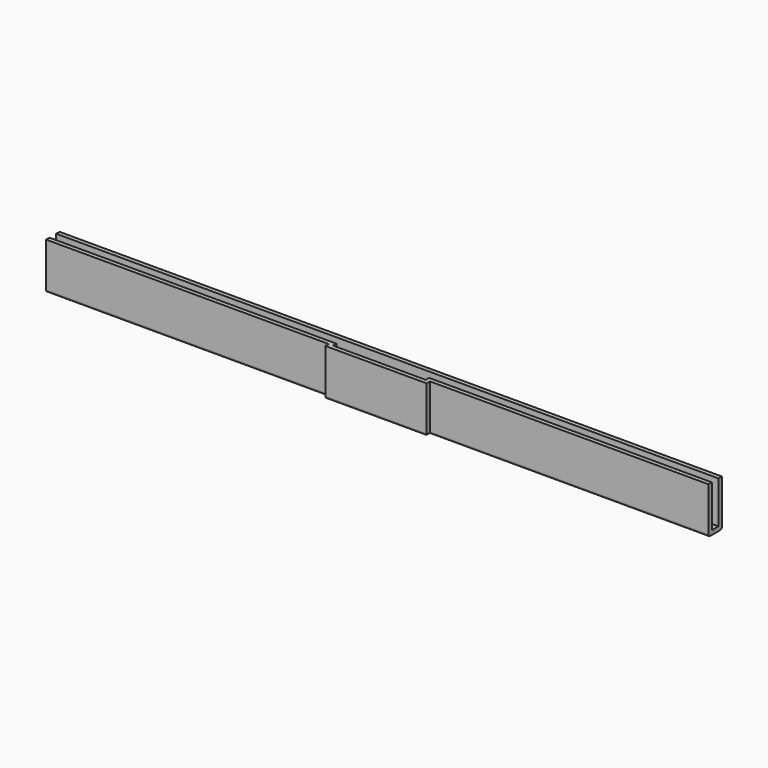
from build123d import *

# Parameters (mm, degrees)
F0_W     = 22
F0_H     = 1
F1_DEPTH = 1
F0_W_2   = 157
F2_DEPTH = 11
F3_R     = 0.5


with BuildPart() as f1:
    # F0 (on Top) → F1 (new body)
    with BuildSketch(Plane.XY):
        Polygon((95, -1), (-62, -1), (-62, -3), (6, -3), (28, -3), (95, -3), align=None)
        with Locations((17, -3.5)):
            Rectangle(F0_W, F0_H)
    extrude(amount=F1_DEPTH)

    # F0 (on Top) → F2 (join)
    with BuildSketch(Plane.XY):
        Polygon((6, -4), (5, -4), (5, -5), (29, -5), (29, -4), (28, -4), align=None)
        Polygon((6, -3), (-62, -3), (-62, -4), (5, -4), (6, -4), align=None)
        Polygon((95, -4), (95, -3), (28, -3), (28, -4), (29, -4), align=None)
        with Locations((16.5, -0.5)):
            Rectangle(F0_W_2, F0_H)
    extrude(amount=F2_DEPTH)

    # F3
    f3_edges = [f1.edges().sort_by_distance(p)[0] for p in [
        (17, -5, 0),
        (5, -4.5, 0),
        (-28.5, -4, 0),
        (62, -4, 0),
        (29, -4.5, 0),
        (16.5, 0, 0),
    ]]
    fillet(f3_edges, radius=F3_R)


solid = f1.part
